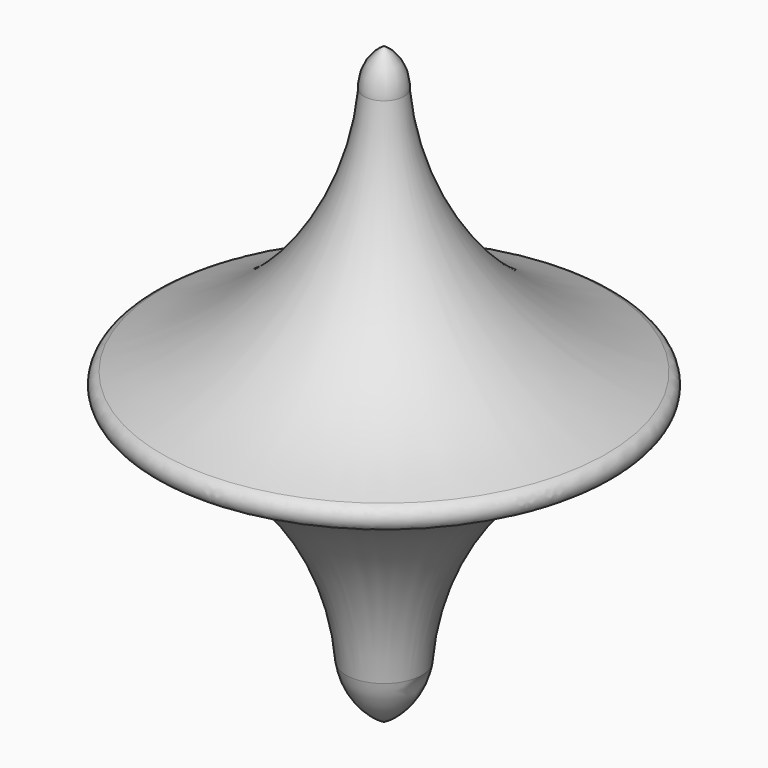
from build123d import *

# Parameters (mm, degrees)
F2_R = 0.708905


with BuildPart() as f1:
    # F0 (on Front) → F1 (revolve)
    with BuildSketch(Plane.XZ):
        with BuildLine():
            Line((0, 1e-05), (0, 17.551886))
            ThreePointArc((0, 17.551886), (-0.909365, 16.609678), (-1.185516, 15.329662))
            ThreePointArc((-1.185516, 15.329662), (-6.430023, 4.51467), (-17.569443, 0))
            Line((-17.569443, 0), (0, 1e-05))
        make_face()
        with BuildLine():
            Line((0, -17.448114), (0, 1e-05))
            Line((0, 1e-05), (-17.569443, 0))
            ThreePointArc((-17.569443, 0), (-7.085617, -4.129516), (-2.234276, -14.299472))
            ThreePointArc((-2.234276, -14.299472), (-1.486002, -16.135539), (0, -17.448114))
        make_face()
    revolve(axis=Axis((0, 0, 0.051886), (0, 0, -1)))

    # F2
    f2_edges = [f1.edges().sort_by_distance(p)[0] for p in [
        (-7.085617, 0, -4.129516),
        (2.234276, 0, -14.299472),
        (17.569443, 0, 0),
    ]]
    fillet(f2_edges, radius=F2_R)


solid = f1.part
